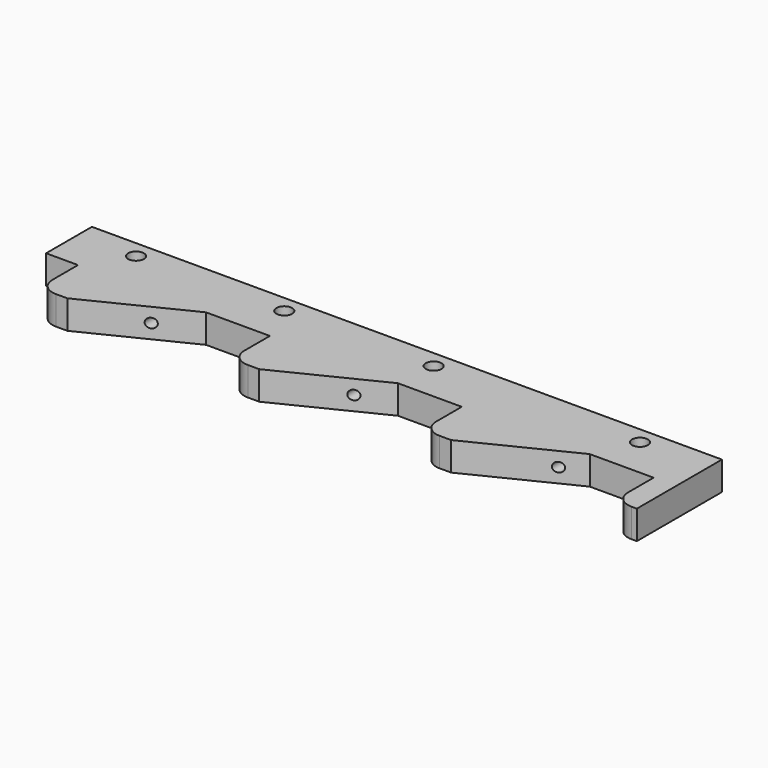
from build123d import *

# Parameters (mm, degrees)
F0_R     = 2.75
F1_DEPTH = 10
F2_R     = 1.65
F3_DEPTH = 47


with BuildPart() as f1:
    # F0 (on Top) → F1 (new body)
    with BuildSketch(Plane.XY):
        with BuildLine():
            Line((253.5, -26.873702), (33.5, -26.873702))
            Line((33.5, -26.873702), (33.5, -46.873702))
            Line((33.5, -46.873702), (44.65, -46.873702))
            Line((44.65, -46.873702), (44.65, -58.023702))
            ThreePointArc((44.65, -58.023702), (46.407359, -62.266343), (50.65, -64.023702))
            Line((50.65, -64.023702), (54.65, -64.023702))
            Line((54.65, -64.023702), (89.35, -46.873702))
            Line((89.35, -46.873702), (100.5, -46.873702))
            Line((100.5, -46.873702), (111.65, -46.873702))
            Line((111.65, -46.873702), (111.65, -58.023702))
            ThreePointArc((111.65, -58.023702), (113.407359, -62.266343), (117.65, -64.023702))
            Line((117.65, -64.023702), (121.65, -64.023702))
            Line((121.65, -64.023702), (156.35, -46.873702))
            Line((156.35, -46.873702), (167.5, -46.873702))
            Line((167.5, -46.873702), (178.65, -46.873702))
            Line((178.65, -46.873702), (178.65, -58.023702))
            ThreePointArc((178.65, -58.023702), (180.407359, -62.266343), (184.65, -64.023702))
            Line((184.65, -64.023702), (188.65, -64.023702))
            Line((188.65, -64.023702), (223.35, -46.873702))
            Line((223.35, -46.873702), (234.5, -46.873702))
            Line((234.5, -46.873702), (245.65, -46.873702))
            Line((245.65, -46.873702), (245.65, -58.023702))
            ThreePointArc((245.65, -58.023702), (247.407359, -62.266343), (251.65, -64.023702))
            Line((251.65, -64.023702), (253.5, -64.023702))
            Line((253.5, -64.023702), (253.5, -26.873702))
        make_face()
        with Locations((53.710863, -32.873702)):
            Circle(F0_R, mode=Mode.SUBTRACT)
        with Locations((105.480157, -32.873702)):
            Circle(F0_R, mode=Mode.SUBTRACT)
        with Locations((157.637224, -32.873702)):
            Circle(F0_R, mode=Mode.SUBTRACT)
        with Locations((229.666397, -32.873702)):
            Circle(F0_R, mode=Mode.SUBTRACT)
    extrude(amount=F1_DEPTH)

    # F2 (on face) → F3 (cut)
    with BuildSketch(Plane(origin=(0, -26.873702, 0), x_dir=(-1, 0, 0), z_dir=(0, 1, 0))):
        with Locations((-75.642549, 5)):
            Circle(F2_R)
        with Locations((-145.342723, 5)):
            Circle(F2_R)
        with Locations((-215.526983, 5)):
            Circle(F2_R)
    extrude(amount=-F3_DEPTH, mode=Mode.SUBTRACT)


solid = f1.part
